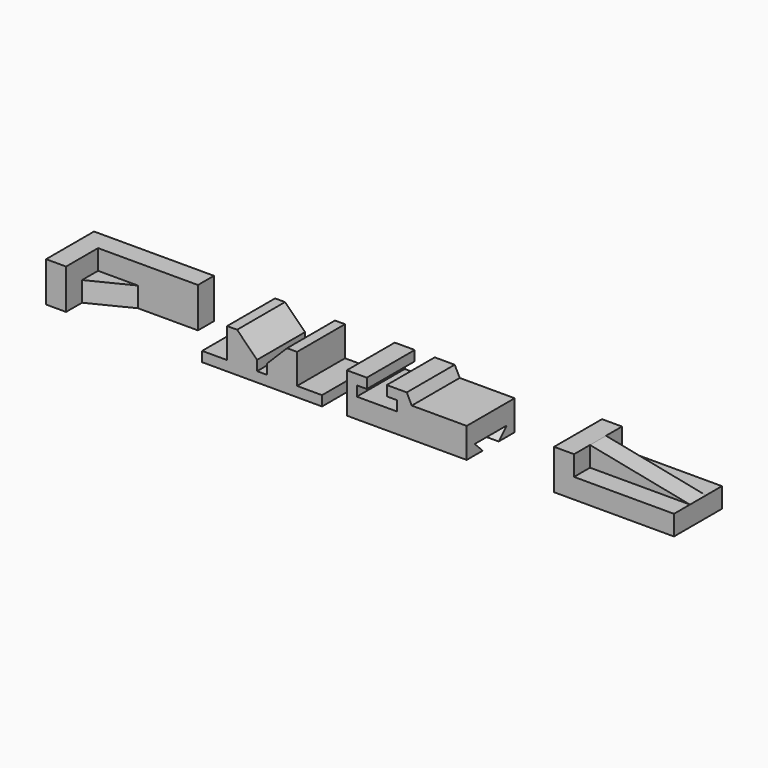
from build123d import *

# Parameters (mm, degrees)
F1_DEPTH  = 50.8
F3_DEPTH  = 25.4
F5_DEPTH  = 76.2
F7_DEPTH  = 76.2
F9_DEPTH  = 167.386
F10_W     = 152.4
F10_H     = 76.2
F11_DEPTH = 50.8
F12_W     = 127
F12_H     = 25.4
F13_DEPTH = 25.4
F14_W     = 127
F14_H     = 25.4
F15_DEPTH = 25.4
F17_DEPTH = 25.4


with BuildPart() as f1:
    # F0 (on Top) → F1 (new body)
    with BuildSketch(Plane.XY):
        Polygon((161.302644, 76.2), (161.302644, 0), (186.702644, 0), (186.702644, 25.4), (237.502644, 50.8), (313.702644, 50.8), (313.702644, 76.2), align=None)
    extrude(amount=F1_DEPTH)

    # F2 (on face) → F3 (cut)
    with BuildSketch(Plane.XY.offset(50.8)):
        Polygon((186.702644, 50.8), (186.702644, 25.4), (237.502644, 50.8), align=None)
    extrude(amount=-F3_DEPTH, mode=Mode.SUBTRACT)


with BuildPart() as f5:
    # F4 (on Front) → F5 (new body)
    with BuildSketch(Plane.XZ):
        Polygon((359.640496, 12.7), (359.640496, 0), (512.040496, 0), (512.040496, 12.7), (480.290496, 12.7), (480.290496, 50.8), (467.590496, 50.8), (442.190496, 25.4), (442.190496, 12.7), (429.490496, 12.7), (429.490496, 25.4), (404.090496, 50.8), (391.390496, 50.8), (391.390496, 12.7), align=None)
    extrude(amount=-F5_DEPTH)


with BuildPart() as f7:
    # F6 (on Front) → F7 (new body)
    with BuildSketch(Plane.XZ):
        Polygon((543.544258, 50.8), (543.544258, 0), (695.944258, 0), (695.944258, 38.1), (626.094258, 38.1), (619.744258, 50.8), (594.344258, 50.8), (594.344258, 38.1), (607.044258, 38.1), (607.044258, 25.4), (556.244258, 25.4), (556.244258, 38.1), (568.944258, 38.1), (568.944258, 50.8), align=None)
    extrude(amount=-F7_DEPTH)

    # F8 (on face) → F9 (cut)
    with BuildSketch(Plane.YZ.offset(695.944258)):
        Polygon((63.5, 12.7), (12.7, 12.7), (25.4, 0), (50.8, 0), align=None)
    extrude(amount=-F9_DEPTH, mode=Mode.SUBTRACT)


with BuildPart() as f11:
    # F10 (on Top) → F11 (new body)
    with BuildSketch(Plane.XY):
        with Locations((883.183289, 38.1)):
            Rectangle(F10_W, F10_H)
    extrude(amount=F11_DEPTH)

    # F12 (on face) → F13 (cut)
    with BuildSketch(Plane.XZ):
        with Locations((895.883289, 38.1)):
            Rectangle(F12_W, F12_H)
    extrude(amount=-F13_DEPTH, mode=Mode.SUBTRACT)

    # F14 (on face) → F15 (cut)
    with BuildSketch(Plane(origin=(0, 76.2, 0), x_dir=(-1, 0, 0), z_dir=(0, 1, 0))):
        with Locations((-895.883289, 38.1)):
            Rectangle(F14_W, F14_H)
    extrude(amount=-F15_DEPTH, mode=Mode.SUBTRACT)

    # F16 (on face) → F17 (cut)
    with BuildSketch(Plane.XZ.offset(-25.4)):
        Polygon((959.383289, 50.8), (832.383289, 50.8), (959.383289, 25.4), align=None)
    extrude(amount=-F17_DEPTH, mode=Mode.SUBTRACT)


solid = Compound([f1.part, f5.part, f7.part, f11.part])
